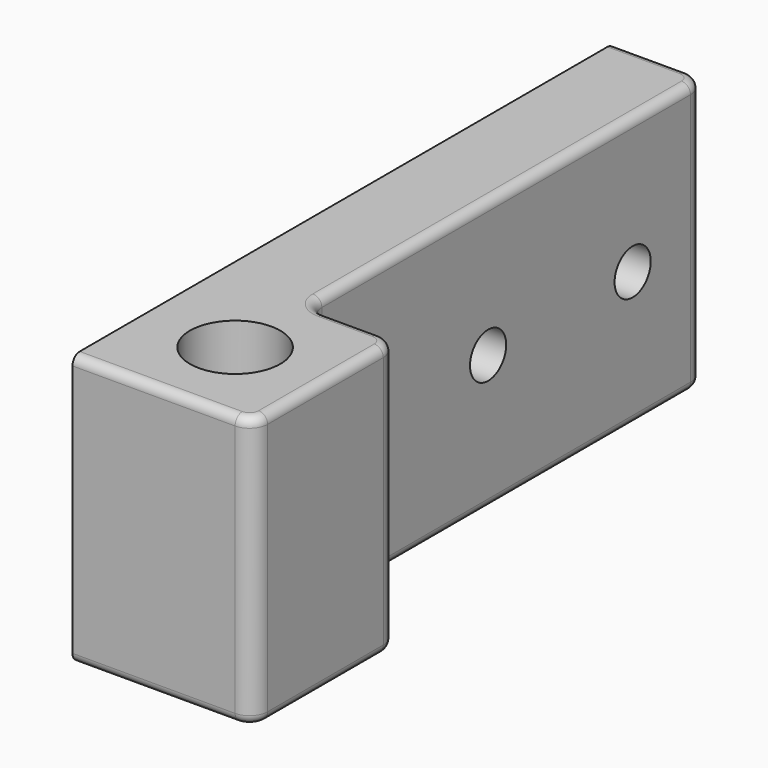
from build123d import *

# Parameters (mm, degrees)
F1_DEPTH = 30
F3_D     = 10
F5_D     = 5
F7_D     = 5
F8_R     = 2
F9_R     = 1


with BuildPart() as f1:
    # F0 (on Top) → F1 (new body)
    with BuildSketch(Plane.XY):
        Polygon((10, 0), (0, 0), (0, -75), (20, -75), (20, -55), (10, -55), align=None)
    extrude(amount=F1_DEPTH)

    # F3 (through all)
    with Locations(Plane.XY.offset(30)):
        with Locations((10, -65)):
            Hole(F3_D / 2)

    # F5 (through all)
    with Locations(Plane.YZ.offset(10)):
        with Locations((-10, 15)):
            Hole(F5_D / 2)

    # F7 (through all)
    with Locations(Plane.YZ.offset(10)):
        with Locations((-30, 15)):
            Hole(F7_D / 2)

    # F8
    f8_edges = [f1.edges().sort_by_distance(p)[0] for p in [
        (10, 0, 15),
        (20, -55, 15),
        (10, -55, 15),
        (20, -75, 15),
    ]]
    fillet(f8_edges, radius=F8_R)

    # F9
    f9_edges = [f1.edges().sort_by_distance(p)[0] for p in [
        (4, 0, 30),
        (10, -27.5, 0),
    ]]
    fillet(f9_edges, radius=F9_R)


solid = f1.part
